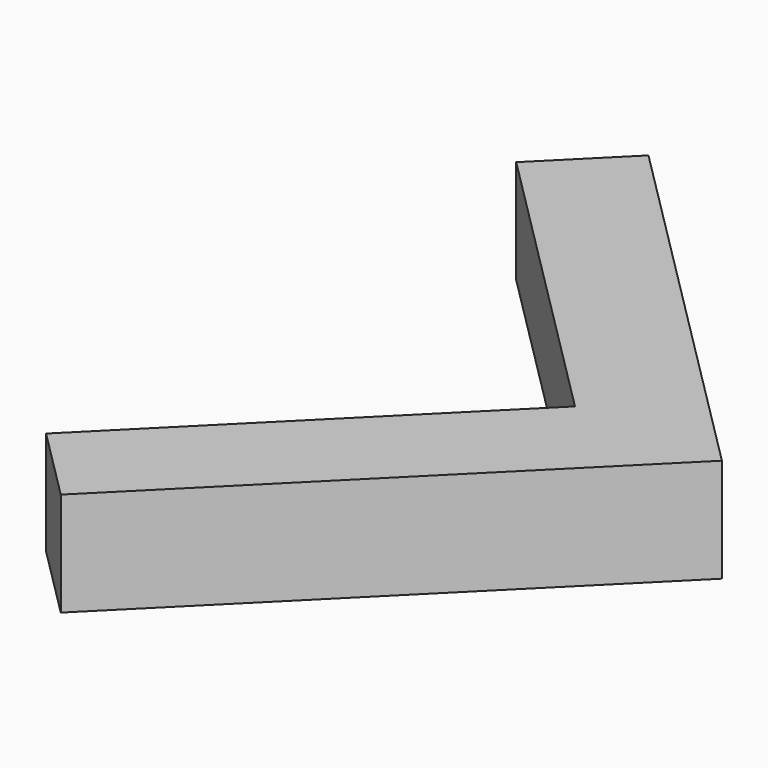
from build123d import *

# Parameters (mm, degrees)
BOX056_W               = 1
BOX056_H               = 5
BOX056_DEPTH           = 1
BOX056_PLACEMENT_ANGLE = 45
BOX059_W               = 1
BOX059_H               = 4
BOX059_DEPTH           = 1
BOX059_PLACEMENT_ANGLE = 135


with BuildPart() as cube056:
    # Box056 → Box056 (new body)
    with BuildSketch(Plane.XY):
        with Locations((0.5, 2.5)):
            Rectangle(BOX056_W, BOX056_H)
    extrude(amount=BOX056_DEPTH)


with BuildPart() as cube056_1:
    # Box056 placement: moved
    add(cube056.part.rotate(Axis((0, 0, 0), (0, 0, 1)), BOX056_PLACEMENT_ANGLE))


with BuildPart() as obj1:
    # Box059 → Box059 (new body)
    with BuildSketch(Plane.XY):
        with Locations((0.5, 2)):
            Rectangle(BOX059_W, BOX059_H)
    extrude(amount=BOX059_DEPTH)


with BuildPart() as obj1_1:
    # Box059 placement: moved
    add(obj1.part.rotate(Axis((0, 0, 0), (0, 0, 1)), BOX059_PLACEMENT_ANGLE))

    # Fusion005: union Cube056
    add(cube056_1.part)


with BuildPart() as obj1_2:
    # Fusion005 placement: moved
    add(obj1_1.part.moved(Location((16, 5, 0))))


solid = obj1_2.part
